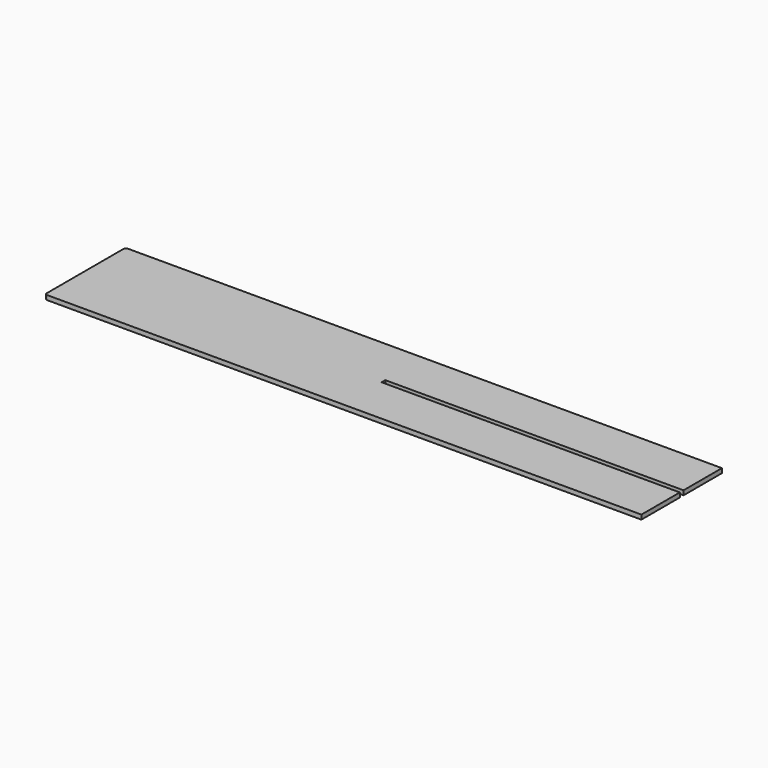
from build123d import *

# Parameters (mm, degrees)
F1_DEPTH = 6


with BuildPart() as f1:
    # F0 (on Top) → F1 (new body)
    with BuildSketch(Plane.XY):
        with BuildLine():
            Line((400, 6.2), (400, 70.6))
            Line((400, 70.6), (-397, 70.6))
            ThreePointArc((-397, 70.6), (-399.12132, 69.72132), (-400, 67.6))
            Line((-400, 67.6), (-400, 3.1))
            Line((-400, 3.1), (-219.748155, 3.1))
            Line((-219.748155, 3.1), (0, 3.1))
            Line((0, 3.1), (0, 6.2))
            Line((0, 6.2), (400, 6.2))
        make_face()
        with BuildLine():
            Line((-219.748155, 3.1), (-400, 3.1))
            Line((-400, 3.1), (-400, -61.4))
            ThreePointArc((-400, -61.4), (-399.12132, -63.52132), (-397, -64.4))
            Line((-397, -64.4), (400, -64.4))
            Line((400, -64.4), (400, 0))
            Line((400, 0), (0, 0))
            Line((0, 0), (0, 3.1))
            Line((0, 3.1), (-219.748155, 3.1))
        make_face()
    extrude(amount=F1_DEPTH)


solid = f1.part
